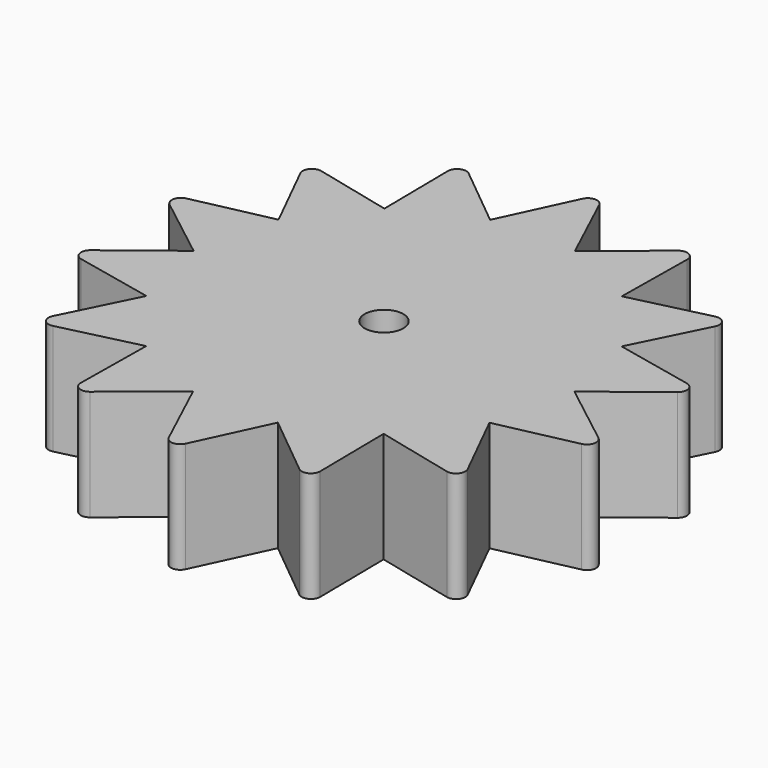
from build123d import *

# Parameters (mm, degrees)
F0_R     = 1.05
F1_DEPTH = 6


with BuildPart() as f1:
    # F0 (on Top) → F1 (new body)
    with BuildSketch(Plane.XY):
        with BuildLine():
            Line((-2.298571, -10.070698), (-0.453154, -14.028208))
            ThreePointArc((-0.453154, -14.028208), (0, -14.316899), (0.453154, -14.028208))
            Line((0.453154, -14.028208), (2.298571, -10.070698))
            Line((2.298571, -10.070698), (5.678334, -12.835595))
            ThreePointArc((5.678334, -12.835595), (6.21187, -12.89908), (6.494889, -12.442363))
            Line((6.494889, -12.442363), (6.440453, -8.076073))
            Line((6.440453, -8.076073), (10.685158, -9.100735))
            ThreePointArc((10.685158, -9.100735), (11.193403, -8.926441), (11.250232, -8.392155))
            Line((11.250232, -8.392155), (9.306725, -4.481882))
            Line((9.306725, -4.481882), (13.575656, -3.563362))
            ThreePointArc((13.575656, -3.563362), (13.957945, -3.18581), (13.777328, -2.679778))
            Line((13.777328, -2.679778), (10.329685, 0))
            Line((10.329685, 0), (13.777328, 2.679778))
            ThreePointArc((13.777328, 2.679778), (13.957945, 3.18581), (13.575656, 3.563362))
            Line((13.575656, 3.563362), (9.306725, 4.481882))
            Line((9.306725, 4.481882), (11.250232, 8.392155))
            ThreePointArc((11.250232, 8.392155), (11.193403, 8.926441), (10.685158, 9.100735))
            Line((10.685158, 9.100735), (6.440453, 8.076073))
            Line((6.440453, 8.076073), (6.494889, 12.442363))
            ThreePointArc((6.494889, 12.442363), (6.21187, 12.89908), (5.678334, 12.835595))
            Line((5.678334, 12.835595), (2.298571, 10.070698))
            Line((2.298571, 10.070698), (0.453154, 14.028208))
            ThreePointArc((0.453154, 14.028208), (0, 14.316899), (-0.453154, 14.028208))
            Line((-0.453154, 14.028208), (-2.298571, 10.070698))
            Line((-2.298571, 10.070698), (-5.678334, 12.835595))
            ThreePointArc((-5.678334, 12.835595), (-6.21187, 12.89908), (-6.494889, 12.442363))
            Line((-6.494889, 12.442363), (-6.440453, 8.076073))
            Line((-6.440453, 8.076073), (-10.685158, 9.100735))
            ThreePointArc((-10.685158, 9.100735), (-11.193403, 8.926441), (-11.250232, 8.392155))
            Line((-11.250232, 8.392155), (-9.306725, 4.481882))
            Line((-9.306725, 4.481882), (-13.575656, 3.563362))
            ThreePointArc((-13.575656, 3.563362), (-13.957945, 3.18581), (-13.777328, 2.679778))
            Line((-13.777328, 2.679778), (-10.329685, 0))
            Line((-10.329685, 0), (-13.777328, -2.679778))
            ThreePointArc((-13.777328, -2.679778), (-13.957945, -3.18581), (-13.575656, -3.563362))
            Line((-13.575656, -3.563362), (-9.306725, -4.481882))
            Line((-9.306725, -4.481882), (-11.250232, -8.392155))
            ThreePointArc((-11.250232, -8.392155), (-11.193403, -8.926441), (-10.685158, -9.100735))
            Line((-10.685158, -9.100735), (-6.440453, -8.076073))
            Line((-6.440453, -8.076073), (-6.494889, -12.442363))
            ThreePointArc((-6.494889, -12.442363), (-6.21187, -12.89908), (-5.678334, -12.835595))
            Line((-5.678334, -12.835595), (-2.298571, -10.070698))
        make_face()
        Circle(F0_R, mode=Mode.SUBTRACT)
    extrude(amount=F1_DEPTH)


solid = f1.part
